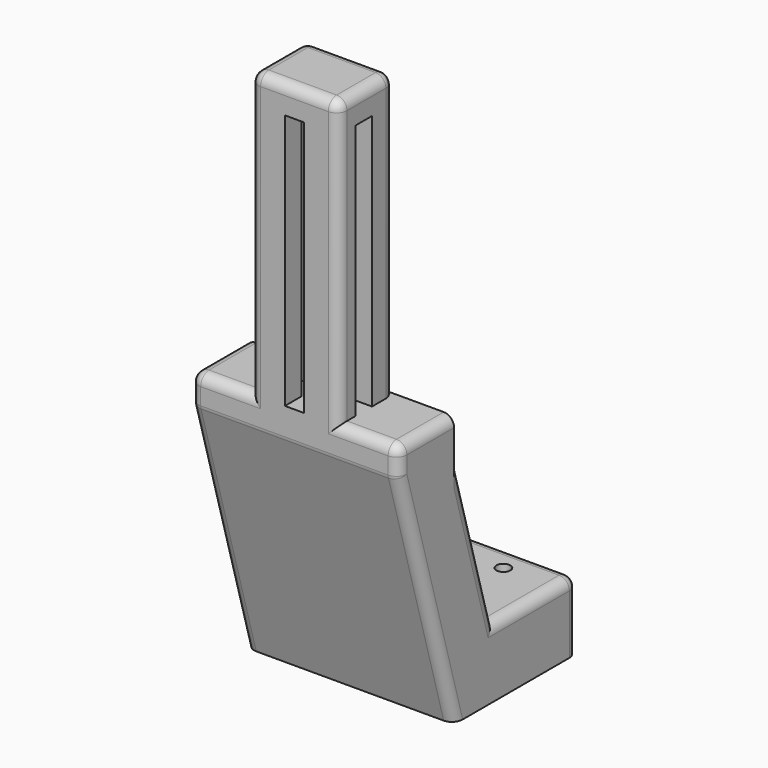
from build123d import *

# Parameters (mm, degrees)
PAD_DEPTH       = 30
SKETCH001_R     = 2
POCKET_DEPTH    = 50
SKETCH002_W     = 81.7157287525
SKETCH002_H     = 17.25
SKETCH002_W_2   = 73.7157287525
SKETCH002_H_2   = 5.5
POCKET001_DEPTH = 50
SKETCH003_W     = 6
SKETCH003_H     = 73.7157287525
POCKET002_DEPTH = 50
FILLET_R        = 3


with BuildPart() as part:
    # Sketch → Pad (new body, symmetric)
    with BuildSketch(Plane.YZ):
        Polygon((64.5161954169, 20), (64.5161954169, 0), (20, 0), (0, 70), (0, 160), (20, 160), (20, 70.8066839593), (34.5161954169, 20), align=None)
    extrude(amount=PAD_DEPTH, both=True)

    # Sketch001 (on Face3 of Pad) → Pocket (cut)
    with BuildSketch(Plane(origin=(0, 0, 20), x_dir=(0, -1, 0), z_dir=(0, 0, 1))):
        with Locations((-56.5161954169, -15)):
            Circle(SKETCH001_R)
        with Locations((-56.5161954169, 15)):
            Circle(SKETCH001_R)
        with Locations((-41.5161954169, 15)):
            Circle(SKETCH001_R)
        with Locations((-41.5161954169, -15)):
            Circle(SKETCH001_R)
    extrude(amount=-POCKET_DEPTH, mode=Mode.SUBTRACT)

    # Sketch002 (on Face6 of Pocket) → Pocket001 (cut)
    with BuildSketch(Plane(origin=(0, 0, 0), x_dir=(0, 0, -1), z_dir=(0, -1, 0))):
        with Locations((-119.1421356237, 21.375)):
            Rectangle(SKETCH002_W, SKETCH002_H)
        with Locations((-119.1421356237, -21.375)):
            Rectangle(SKETCH002_W, SKETCH002_H)
        with Locations((-115.1421356237, 0)):
            Rectangle(SKETCH002_W_2, SKETCH002_H_2)
    extrude(amount=-POCKET001_DEPTH, mode=Mode.SUBTRACT)

    # Sketch003 (on Face8 of Pocket001) → Pocket002 (cut)
    with BuildSketch(Plane.YZ.offset(12.75)):
        with Locations((9, 115.1421356237)):
            Rectangle(SKETCH003_W, SKETCH003_H)
    extrude(amount=-POCKET002_DEPTH, mode=Mode.SUBTRACT)

    # Fillet
    fillet_edges = [part.edges().sort_by_distance(p)[0] for p in [
        (30, 27.258098, 45.403342),
        (-30, 27.258098, 45.403342),
        (30, 49.516195, 20),
        (0, 64.516195, 20),
        (-30, 64.516195, 10),
        (-30, 49.516195, 20),
        (30, 64.516195, 10),
        (12.75, 20, 119.142136),
        (-12.75, 20, 119.142136),
        (0, 20, 160),
        (12.75, 10, 160),
        (0, 0, 160),
        (-12.75, 10, 160),
        (12.75, 0, 119.142136),
        (30, 10, 78.284271),
        (21.375, 0, 78.284271),
        (-12.75, 0, 119.142136),
        (-30, 10, 78.284271),
        (-21.375, 0, 78.284271),
        (-30, 0, 74.142136),
        (-30, 10, 35),
        (0, 0, 70),
        (30, 10, 35),
        (30, 0, 74.142136),
    ]]
    fillet(fillet_edges, radius=FILLET_R)


solid = part.part
